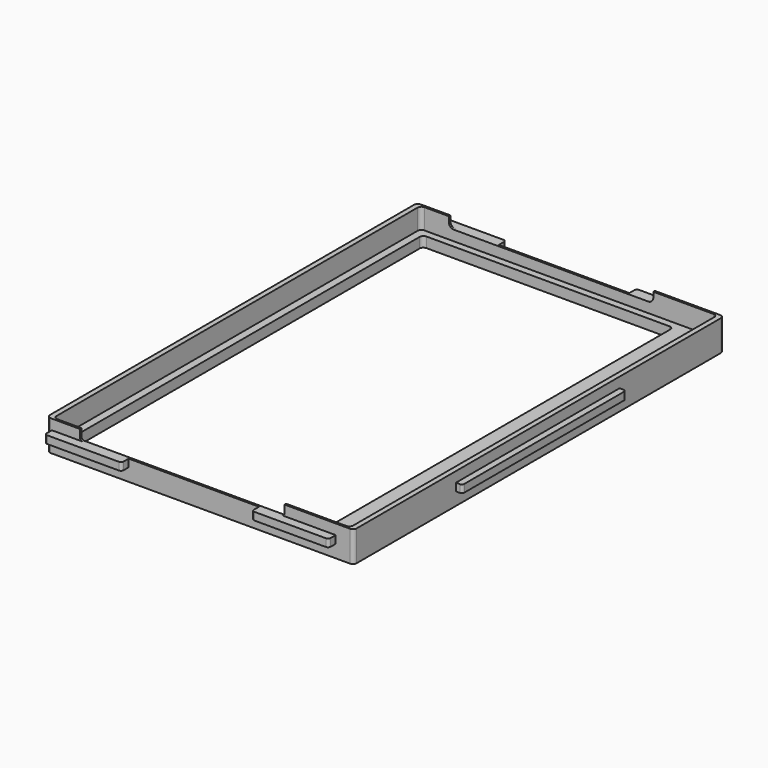
from build123d import *

# Parameters (mm, degrees)
BOX011_W      = 4
BOX011_H      = 80
BOX011_DEPTH  = 3
FILLET006_R   = 1
BOX010_W      = 30
BOX010_H      = 4
BOX010_DEPTH  = 3
FILLET007_R   = 1
BOX009_W      = 30
BOX009_H      = 4
BOX009_DEPTH  = 3
FILLET008_R   = 1
BOX008_W      = 30
BOX008_H      = 4
BOX008_DEPTH  = 3
FILLET009_R   = 1
BOX013_W      = 4
BOX013_H      = 80
BOX013_DEPTH  = 3
FILLET010_R   = 1
BOX012_W      = 30
BOX012_H      = 4
BOX012_DEPTH  = 3
FILLET005_R   = 1
BOX006_W      = 80
BOX006_H      = 10
BOX006_DEPTH  = 10
BOX007_W      = 80
BOX007_H      = 10
BOX007_DEPTH  = 10
FILLET004_1_R = 2
FILLET004_2_R = 1
BOX003_W      = 116
BOX003_H      = 179.5
BOX003_DEPTH  = 10
FILLET002_R   = 1.5
BOX002_W      = 120
BOX002_H      = 181
BOX002_DEPTH  = 8
FILLET003_R   = 1.5
BOX001_W      = 98
BOX001_H      = 173.5
BOX001_DEPTH  = 4
FILLET_R      = 1.5
BOX_W         = 120
BOX_H         = 181
BOX_DEPTH     = 4
FILLET001_R   = 1.5


with BuildPart() as fillet006:
    # Box011 → Box011 (new body)
    with BuildSketch(Plane(origin=(0, 50, 5), x_dir=(1, 0, 0), z_dir=(0, 0, 1))):
        with Locations((2, 40)):
            Rectangle(BOX011_W, BOX011_H)
    extrude(amount=BOX011_DEPTH)

    # Fillet006
    fillet006_edges = [fillet006.edges().sort_by_distance(p)[0] for p in [
        (0, 50, 6.5),
        (0, 130, 6.5),
    ]]
    fillet(fillet006_edges, radius=FILLET006_R)


with BuildPart() as fillet007:
    # Box010 → Box010 (new body)
    with BuildSketch(Plane(origin=(85, -3.5, 5), x_dir=(1, 0, 0), z_dir=(0, 0, 1))):
        with Locations((15, 2)):
            Rectangle(BOX010_W, BOX010_H)
    extrude(amount=BOX010_DEPTH)

    # Fillet007
    fillet007_edges = [fillet007.edges().sort_by_distance(p)[0] for p in [
        (85, -3.5, 6.5),
        (115, -3.5, 6.5),
    ]]
    fillet(fillet007_edges, radius=FILLET007_R)


with BuildPart() as fillet008:
    # Box009 → Box009 (new body)
    with BuildSketch(Plane(origin=(4, 180.5, 5), x_dir=(1, 0, 0), z_dir=(0, 0, 1))):
        with Locations((15, 2)):
            Rectangle(BOX009_W, BOX009_H)
    extrude(amount=BOX009_DEPTH)

    # Fillet008
    fillet008_edges = [fillet008.edges().sort_by_distance(p)[0] for p in [
        (4, 184.5, 6.5),
        (34, 184.5, 6.5),
    ]]
    fillet(fillet008_edges, radius=FILLET008_R)


with BuildPart() as fillet009:
    # Box008 → Box008 (new body)
    with BuildSketch(Plane(origin=(85, 180.5, 5), x_dir=(1, 0, 0), z_dir=(0, 0, 1))):
        with Locations((15, 2)):
            Rectangle(BOX008_W, BOX008_H)
    extrude(amount=BOX008_DEPTH)

    # Fillet009
    fillet009_edges = [fillet009.edges().sort_by_distance(p)[0] for p in [
        (85, 184.5, 6.5),
        (115, 184.5, 6.5),
    ]]
    fillet(fillet009_edges, radius=FILLET009_R)


with BuildPart() as fillet010:
    # Box013 → Box013 (new body)
    with BuildSketch(Plane(origin=(120.5, 50, 5), x_dir=(1, 0, 0), z_dir=(0, 0, 1))):
        with Locations((2, 40)):
            Rectangle(BOX013_W, BOX013_H)
    extrude(amount=BOX013_DEPTH)

    # Fillet010
    fillet010_edges = [fillet010.edges().sort_by_distance(p)[0] for p in [
        (124.5, 50, 6.5),
        (124.5, 130, 6.5),
    ]]
    fillet(fillet010_edges, radius=FILLET010_R)


with BuildPart() as fusion002:
    # Box012 → Box012 (new body)
    with BuildSketch(Plane(origin=(4, -3.5, 5), x_dir=(1, 0, 0), z_dir=(0, 0, 1))):
        with Locations((15, 2)):
            Rectangle(BOX012_W, BOX012_H)
    extrude(amount=BOX012_DEPTH)

    # Fillet005
    fillet005_edges = [fusion002.edges().sort_by_distance(p)[0] for p in [
        (4, -3.5, 6.5),
        (34, -3.5, 6.5),
    ]]
    fillet(fillet005_edges, radius=FILLET005_R)

    # Fusion002: union Fillet006, Fillet007, Fillet008, Fillet009, Fillet010
    add(fillet006.part)
    add(fillet007.part)
    add(fillet008.part)
    add(fillet009.part)
    add(fillet010.part)


with BuildPart() as cube006:
    # Box006 → Box006 (new body)
    with BuildSketch(Plane(origin=(15, -5, 0), x_dir=(1, 0, 0), z_dir=(0, 0, 1))):
        with Locations((40, 5)):
            Rectangle(BOX006_W, BOX006_H)
    extrude(amount=BOX006_DEPTH)


with BuildPart() as fillet004:
    # Box007 → Box007 (new body)
    with BuildSketch(Plane(origin=(15, 175, 0), x_dir=(1, 0, 0), z_dir=(0, 0, 1))):
        with Locations((40, 5)):
            Rectangle(BOX007_W, BOX007_H)
    extrude(amount=BOX007_DEPTH)

    # Fusion: union Cube006
    add(cube006.part)


with BuildPart() as fillet004_1:
    # Fusion placement: moved
    add(fillet004.part.moved(Location((0, 0, 8))))

    # Fillet004 1
    fillet004_1_edges = [fillet004_1.edges().sort_by_distance(p)[0] for p in [
        (15, 180, 8),
        (95, 180, 8),
    ]]
    fillet(fillet004_1_edges, radius=FILLET004_1_R)

    # Fillet004 2
    fillet004_2_edges = [fillet004_1.edges().sort_by_distance(p)[0] for p in [
        (15, 0, 8),
        (95, 0, 8),
    ]]
    fillet(fillet004_2_edges, radius=FILLET004_2_R)


with BuildPart() as fillet002:
    # Box003 → Box003 (new body)
    with BuildSketch(Plane(origin=(4, 0.75, 4), x_dir=(1, 0, 0), z_dir=(0, 0, 1))):
        with Locations((58, 89.75)):
            Rectangle(BOX003_W, BOX003_H)
    extrude(amount=BOX003_DEPTH)

    # Fillet002
    fillet002_edges = [fillet002.edges().sort_by_distance(p)[0] for p in [
        (4, 0.75, 9),
        (4, 180.25, 9),
        (120, 0.75, 9),
        (120, 180.25, 9),
    ]]
    fillet(fillet002_edges, radius=FILLET002_R)


with BuildPart() as cut002:
    # Box002 → Box002 (new body)
    with BuildSketch(Plane(origin=(2, 0, 4), x_dir=(1, 0, 0), z_dir=(0, 0, 1))):
        with Locations((60, 90.5)):
            Rectangle(BOX002_W, BOX002_H)
    extrude(amount=BOX002_DEPTH)

    # Fillet003
    fillet003_edges = [cut002.edges().sort_by_distance(p)[0] for p in [
        (2, 0, 8),
        (2, 181, 8),
        (122, 0, 8),
        (122, 181, 8),
    ]]
    fillet(fillet003_edges, radius=FILLET003_R)

    # Cut001: cut Fillet002
    add(fillet002.part, mode=Mode.SUBTRACT)

    # Cut002: cut Fillet004
    add(fillet004_1.part, mode=Mode.SUBTRACT)


with BuildPart() as fillet_body:
    # Box001 → Box001 (new body)
    with BuildSketch(Plane(origin=(7, 4, 0), x_dir=(1, 0, 0), z_dir=(0, 0, 1))):
        with Locations((49, 86.75)):
            Rectangle(BOX001_W, BOX001_H)
    extrude(amount=BOX001_DEPTH)

    # Fillet
    fillet_edges = [fillet_body.edges().sort_by_distance(p)[0] for p in [
        (7, 4, 2),
        (7, 177.5, 2),
        (105, 4, 2),
        (105, 177.5, 2),
    ]]
    fillet(fillet_edges, radius=FILLET_R)


with BuildPart() as fusion003:
    # Box → Box (new body)
    with BuildSketch(Plane(origin=(2, 0, 0), x_dir=(1, 0, 0), z_dir=(0, 0, 1))):
        with Locations((60, 90.5)):
            Rectangle(BOX_W, BOX_H)
    extrude(amount=BOX_DEPTH)

    # Fillet001
    fillet001_edges = [fusion003.edges().sort_by_distance(p)[0] for p in [
        (2, 0, 2),
        (2, 181, 2),
        (122, 0, 2),
        (122, 181, 2),
    ]]
    fillet(fillet001_edges, radius=FILLET001_R)

    # Cut: cut Fillet body
    add(fillet_body.part, mode=Mode.SUBTRACT)

    # Fusion001: union Cut002
    add(cut002.part)

    # Fusion003: union Fusion002
    add(fusion002.part)


solid = fusion003.part
